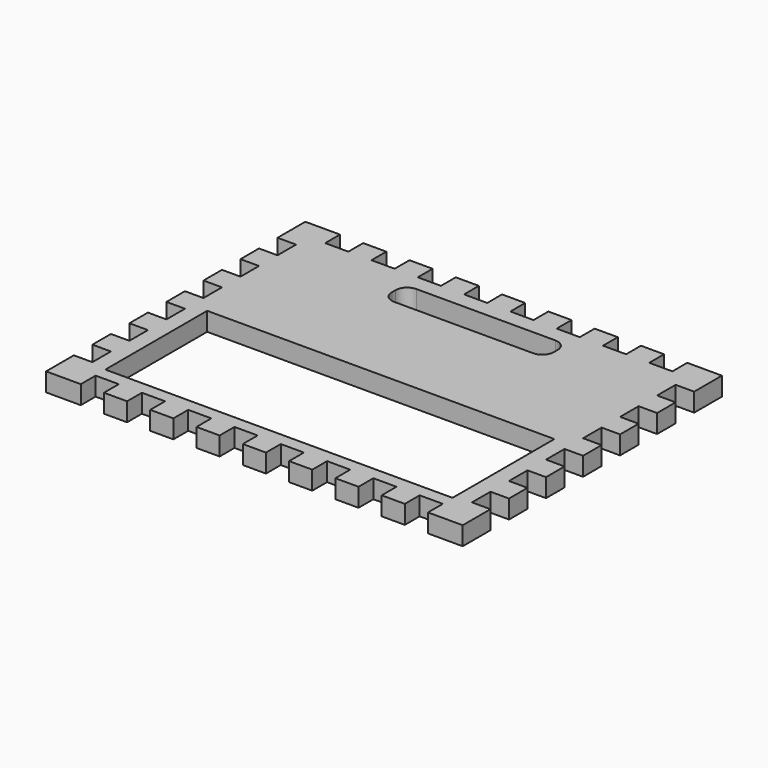
from build123d import *

# Parameters (mm, degrees)
F0_W     = 190.5
F0_H     = 69.85
F1_DEPTH = 10.16
F2_DEPTH = 10.16


with BuildPart() as f1:
    # F0 (on Top) → F1 (new body)
    with BuildSketch(Plane.XY):
        Polygon((19.05, 0), (0, 0), (0, -19.05), (10.16, -19.05), (10.16, -31.75), (0, -31.75), (0, -44.45), (10.16, -44.45), (10.16, -57.15), (0, -57.15), (0, -69.85), (10.16, -69.85), (10.16, -82.55), (0, -82.55), (0, -95.25), (10.16, -95.25), (10.16, -107.95), (0, -107.95), (0, -120.65), (10.16, -120.65), (10.16, -133.35), (0, -133.35), (0, -146.05), (10.16, -146.05), (10.16, -158.75), (0, -158.75), (0, -177.8), (19.05, -177.8), (19.05, -167.64), (31.75, -167.64), (31.75, -177.8), (44.45, -177.8), (44.45, -167.64), (57.15, -167.64), (57.15, -177.8), (69.85, -177.8), (69.85, -167.64), (82.55, -167.64), (82.55, -177.8), (95.25, -177.8), (95.25, -167.64), (107.95, -167.64), (107.95, -177.8), (120.65, -177.8), (120.65, -167.64), (133.35, -167.64), (133.35, -177.8), (146.05, -177.8), (146.05, -167.64), (158.75, -167.64), (158.75, -177.8), (171.45, -177.8), (171.45, -167.64), (184.15, -167.64), (184.15, -177.8), (196.85, -177.8), (196.85, -167.64), (209.55, -167.64), (209.55, -177.8), (228.6, -177.8), (228.6, -158.75), (218.44, -158.75), (218.44, -146.05), (228.6, -146.05), (228.6, -133.35), (218.44, -133.35), (218.44, -120.65), (228.6, -120.65), (228.6, -107.95), (218.44, -107.95), (218.44, -95.25), (228.6, -95.25), (228.6, -82.55), (218.44, -82.55), (218.44, -69.85), (228.6, -69.85), (228.6, -57.15), (218.44, -57.15), (218.44, -44.45), (228.6, -44.45), (228.6, -31.75), (218.44, -31.75), (218.44, -19.05), (228.6, -19.05), (228.6, 0), (209.55, 0), (209.55, -10.16), (196.85, -10.16), (196.85, 0), (184.15, 0), (184.15, -10.16), (171.45, -10.16), (171.45, 0), (158.75, 0), (158.75, -10.16), (146.05, -10.16), (146.05, 0), (133.35, 0), (133.35, -10.16), (120.65, -10.16), (120.65, 0), (107.95, 0), (107.95, -10.16), (95.25, -10.16), (95.25, 0), (82.55, 0), (82.55, -10.16), (69.85, -10.16), (69.85, 0), (57.15, 0), (57.15, -10.16), (44.45, -10.16), (44.45, 0), (31.75, 0), (31.75, -10.16), (19.05, -10.16), align=None)
        with Locations((114.046, -125.73)):
            Rectangle(F0_W, F0_H, mode=Mode.SUBTRACT)
        with BuildLine():
            ThreePointArc((69.85, -25.4), (71.709872, -20.909872), (76.2, -19.05))
            Line((76.2, -19.05), (152.4, -19.05))
            ThreePointArc((152.4, -19.05), (156.890128, -20.909872), (158.75, -25.4))
            Line((158.75, -25.4), (158.75, -27.94))
            ThreePointArc((158.75, -27.94), (156.890128, -32.430128), (152.4, -34.29))
            Line((152.4, -34.29), (76.2, -34.29))
            ThreePointArc((76.2, -34.29), (71.709872, -32.430128), (69.85, -27.94))
            Line((69.85, -27.94), (69.85, -25.4))
        make_face(mode=Mode.SUBTRACT)
    extrude(amount=F1_DEPTH)


with BuildPart() as f2:
    # F0 (on Top) → F2 (new body)
    with BuildSketch(Plane.XY):
        Polygon((19.05, 0), (0, 0), (0, -19.05), (10.16, -19.05), (10.16, -31.75), (0, -31.75), (0, -44.45), (10.16, -44.45), (10.16, -57.15), (0, -57.15), (0, -69.85), (10.16, -69.85), (10.16, -82.55), (0, -82.55), (0, -95.25), (10.16, -95.25), (10.16, -107.95), (0, -107.95), (0, -120.65), (10.16, -120.65), (10.16, -133.35), (0, -133.35), (0, -146.05), (10.16, -146.05), (10.16, -158.75), (0, -158.75), (0, -177.8), (19.05, -177.8), (19.05, -167.64), (31.75, -167.64), (31.75, -177.8), (44.45, -177.8), (44.45, -167.64), (57.15, -167.64), (57.15, -177.8), (69.85, -177.8), (69.85, -167.64), (82.55, -167.64), (82.55, -177.8), (95.25, -177.8), (95.25, -167.64), (107.95, -167.64), (107.95, -177.8), (120.65, -177.8), (120.65, -167.64), (133.35, -167.64), (133.35, -177.8), (146.05, -177.8), (146.05, -167.64), (158.75, -167.64), (158.75, -177.8), (171.45, -177.8), (171.45, -167.64), (184.15, -167.64), (184.15, -177.8), (196.85, -177.8), (196.85, -167.64), (209.55, -167.64), (209.55, -177.8), (228.6, -177.8), (228.6, -158.75), (218.44, -158.75), (218.44, -146.05), (228.6, -146.05), (228.6, -133.35), (218.44, -133.35), (218.44, -120.65), (228.6, -120.65), (228.6, -107.95), (218.44, -107.95), (218.44, -95.25), (228.6, -95.25), (228.6, -82.55), (218.44, -82.55), (218.44, -69.85), (228.6, -69.85), (228.6, -57.15), (218.44, -57.15), (218.44, -44.45), (228.6, -44.45), (228.6, -31.75), (218.44, -31.75), (218.44, -19.05), (228.6, -19.05), (228.6, 0), (209.55, 0), (209.55, -10.16), (196.85, -10.16), (196.85, 0), (184.15, 0), (184.15, -10.16), (171.45, -10.16), (171.45, 0), (158.75, 0), (158.75, -10.16), (146.05, -10.16), (146.05, 0), (133.35, 0), (133.35, -10.16), (120.65, -10.16), (120.65, 0), (107.95, 0), (107.95, -10.16), (95.25, -10.16), (95.25, 0), (82.55, 0), (82.55, -10.16), (69.85, -10.16), (69.85, 0), (57.15, 0), (57.15, -10.16), (44.45, -10.16), (44.45, 0), (31.75, 0), (31.75, -10.16), (19.05, -10.16), align=None)
        with Locations((114.046, -125.73)):
            Rectangle(F0_W, F0_H, mode=Mode.SUBTRACT)
        with BuildLine():
            ThreePointArc((69.85, -25.4), (71.709872, -20.909872), (76.2, -19.05))
            Line((76.2, -19.05), (152.4, -19.05))
            ThreePointArc((152.4, -19.05), (156.890128, -20.909872), (158.75, -25.4))
            Line((158.75, -25.4), (158.75, -27.94))
            ThreePointArc((158.75, -27.94), (156.890128, -32.430128), (152.4, -34.29))
            Line((152.4, -34.29), (76.2, -34.29))
            ThreePointArc((76.2, -34.29), (71.709872, -32.430128), (69.85, -27.94))
            Line((69.85, -27.94), (69.85, -25.4))
        make_face(mode=Mode.SUBTRACT)
    extrude(amount=F2_DEPTH)


solid = Compound([f1.part, f2.part])
